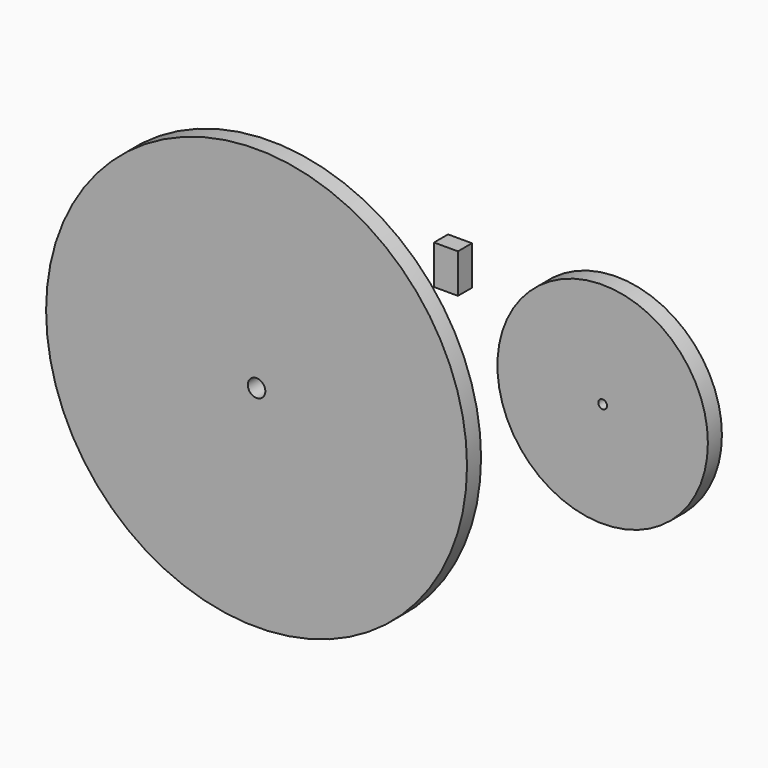
from build123d import *

# Parameters (mm, degrees)
F0_R     = 152.4
F0_R_2   = 6.35
F0_R_3   = 76.2
F0_R_4   = 3.175
F0_W     = 17.32935
F0_H     = 28.390639
F1_DEPTH = 12.7


with BuildPart() as f1:
    # F0 (on Front) → F1 (new body)
    with BuildSketch(Plane.XZ):
        Circle(F0_R)
        Circle(F0_R_2, mode=Mode.SUBTRACT)
        with Locations((250.593364, 71.151383)):
            Circle(F0_R_3)
        with Locations((250.593364, 71.151383)):
            Circle(F0_R_4, mode=Mode.SUBTRACT)
        with Locations((137.156852, 120.383713)):
            Rectangle(F0_W, F0_H)
    extrude(amount=F1_DEPTH)


solid = f1.part
